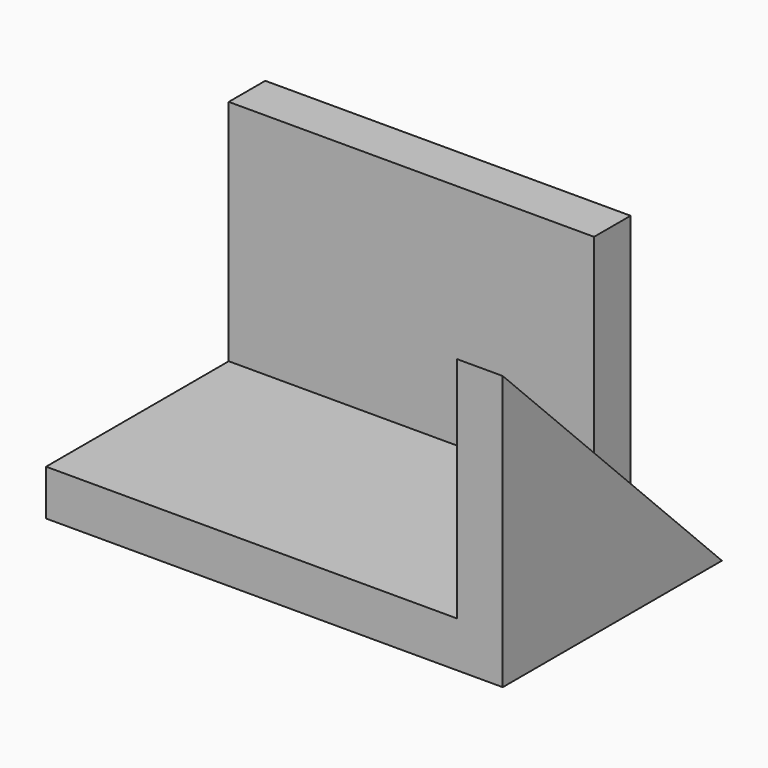
from build123d import *

# Parameters (mm, degrees)
F0_W     = 63.5
F0_H     = 38.1
F1_DEPTH = 6.35
F2_W     = 50.8
F2_H     = 6.35
F3_DEPTH = 31.75
F5_DEPTH = 6.35
F7_DEPTH = 12.7


with BuildPart() as f1:
    # F0 (on Top) → F1 (new body)
    with BuildSketch(Plane.XY):
        Rectangle(F0_W, F0_H)
    extrude(amount=F1_DEPTH)

    # F2 (on face) → F3 (join)
    with BuildSketch(Plane.XY.offset(6.35)):
        with Locations((-6.35, 15.875)):
            Rectangle(F2_W, F2_H)
    extrude(amount=F3_DEPTH)

    # F4 (on face) → F5 (join)
    with BuildSketch(Plane.YZ.offset(31.75)):
        Polygon((-19.05, 6.35), (12.7, 6.35), (-19.05, 38.1), align=None)
    extrude(amount=-F5_DEPTH)

    # F6 (on face) → F7 (cut)
    with BuildSketch(Plane.YZ.offset(31.75)):
        Polygon((19.05, 6.35), (12.7, 6.35), (19.05, 0), align=None)
    extrude(amount=-F7_DEPTH, mode=Mode.SUBTRACT)


solid = f1.part
